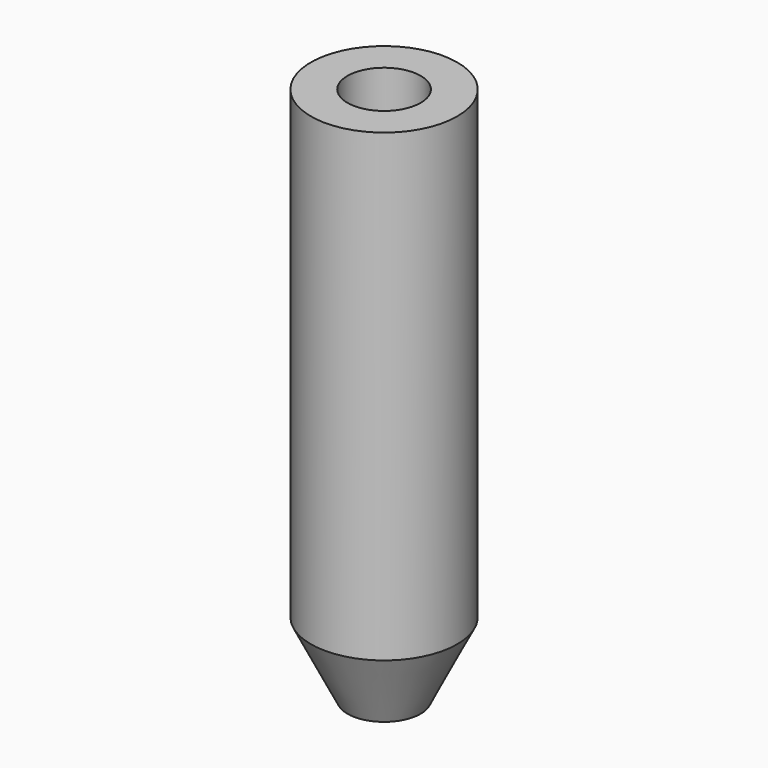
from build123d import *

# Parameters (mm, degrees)
F0_R     = 2
F0_R_2   = 0.875
F1_DEPTH = 4
F6_R     = 4
F6_R_2   = 2
F7_DEPTH = 25.4


with BuildPart() as f1:
    # F0 (on Top) → F1 (new body)
    with BuildSketch(Plane.XY):
        Circle(F0_R)
        Circle(F0_R_2, mode=Mode.SUBTRACT)
    extrude(amount=F1_DEPTH)

    # F4 (on Right) → F5 (revolve)
    with BuildSketch(Plane.YZ):
        Polygon((-1.583964, 4), (-4, 4), (-2, 0), (-1.583964, 0), align=None)
    revolve(axis=Axis((0, 0, 1.998599), (0, 0, 1)))

    # F6 (on face) → F7 (join)
    with BuildSketch(Plane.XY.offset(4)):
        Circle(F6_R)
        Circle(F6_R_2, mode=Mode.SUBTRACT)
    extrude(amount=F7_DEPTH)


solid = f1.part
